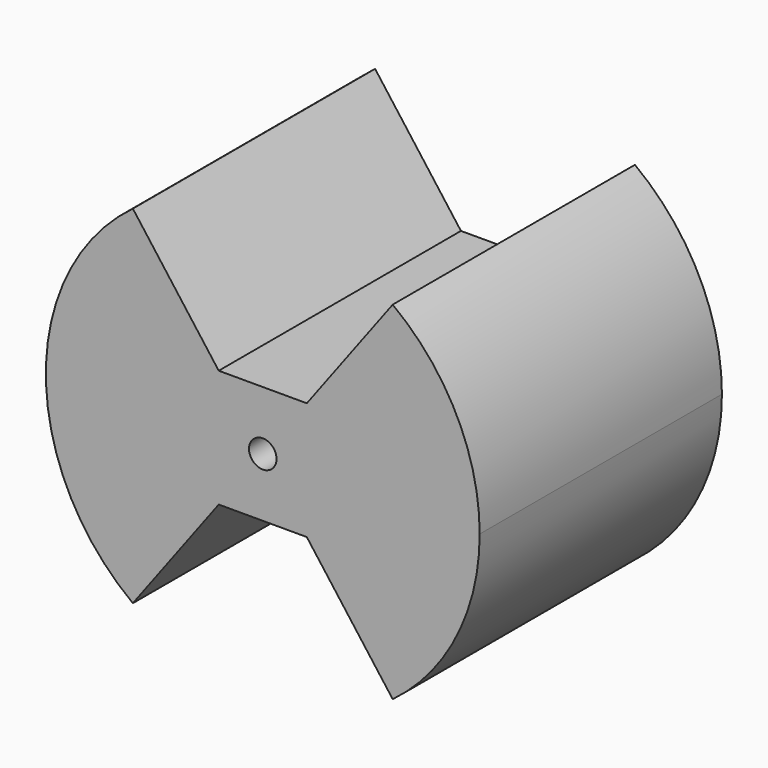
from build123d import *

# Parameters (mm, degrees)
F1_DEPTH = 34.925
F2_D     = 3.556
F2_DEPTH = 34.926
F3_R     = 3.175
F4_DEPTH = 34.925


with BuildPart() as f1:
    # F0 (on Front) → F1 (new body, symmetric)
    with BuildSketch(Plane.XZ):
        Polygon((0, 0), (10.1648431926, 13.589), (-10.1648431926, 13.589), align=None)
        Polygon((-10.16, -13.5825253163), (10.16, -13.5825253163), (0, 0), align=None)
        with BuildLine():
            ThreePointArc((29.972, -40.068449683), (44.7411464985, -22.4060539587), (50.038, 0))
            ThreePointArc((50.038, 0), (44.7411464985, 22.4060539587), (29.972, 40.068449683))
            Line((29.972, 40.068449683), (10.1648431926, 13.589))
            Line((10.1648431926, 13.589), (0, 0))
            Line((0, 0), (10.16, -13.5825253163))
            Line((10.16, -13.5825253163), (29.972, -40.068449683))
        make_face()
        with BuildLine():
            Line((-10.1648431926, 13.589), (-29.972, 40.068449683))
            ThreePointArc((-29.972, 40.068449683), (-50.038, 0), (-29.972, -40.068449683))
            Line((-29.972, -40.068449683), (-10.16, -13.5825253163))
            Line((-10.16, -13.5825253163), (0, 0))
            Line((0, 0), (-10.1648431926, 13.589))
        make_face()
    extrude(amount=F1_DEPTH, both=True)

    # F2 (through all, one way)
    with BuildSketch(Plane.XZ):
        with Locations((0, 0)):
            Circle(F2_D / 2)
    extrude(amount=-F2_DEPTH, mode=Mode.SUBTRACT)

    # F3 (on Front) → F4 (cut, symmetric)
    with BuildSketch(Plane.XZ):
        Circle(F3_R)
    extrude(amount=F4_DEPTH, both=True, mode=Mode.SUBTRACT)


solid = f1.part
